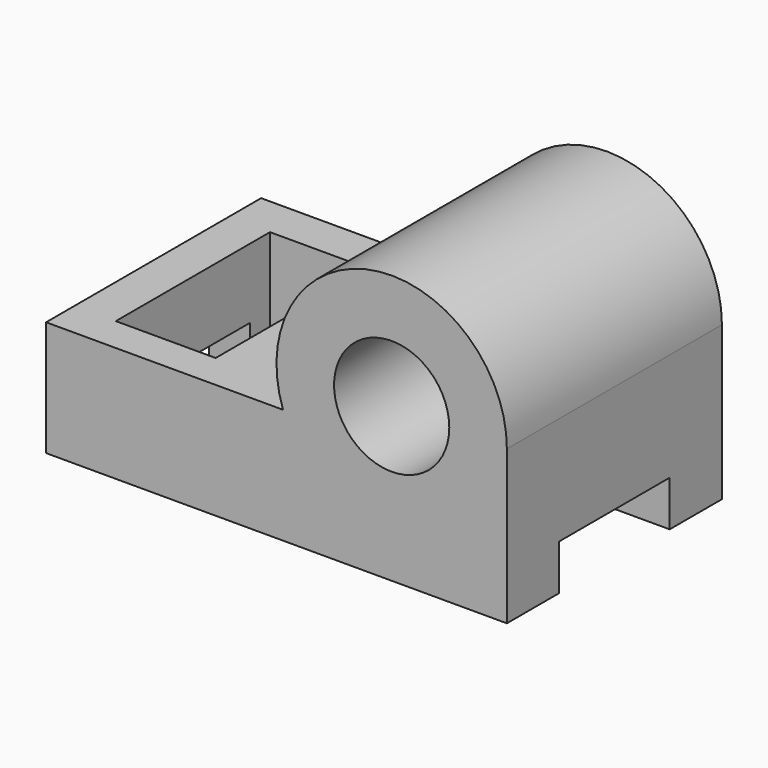
from build123d import *

# Parameters (mm, degrees)
F0_W      = 1200
F0_H      = 700
F1_DEPTH  = 700
F3_DEPTH  = 700.001
F4_R      = 150
F5_DEPTH  = 700.001
F6_W      = 260
F6_H      = 398.8438928255
F7_DEPTH  = 300.001
F8_W      = 260
F8_H      = 102.9841262038
F9_DEPTH  = 300.001
F10_W     = 359.9333584309
F10_H     = 237.0417833328
F11_DEPTH = 1200.001


with BuildPart() as f1:
    # F0 (on Front) → F1 (new body)
    with BuildSketch(Plane.XZ):
        Rectangle(F0_W, F0_H)
    extrude(amount=F1_DEPTH)

    # F2 (on face) → F3 (cut, through all)
    with BuildSketch(Plane.XZ.offset(700)):
        with BuildLine():
            Line((-600, -50), (17.1572875254, -50))
            ThreePointArc((17.1572875254, -50), (55.0510257217, 223.2050807569), (300, 350))
            Line((300, 350), (-600, 350))
            Line((-600, 350), (-600, -50))
        make_face()
        with BuildLine():
            ThreePointArc((300, 350), (512.132034356, 262.132034356), (600, 50))
            Line((600, 50), (600, 350))
            Line((600, 350), (300, 350))
        make_face()
    extrude(amount=-F3_DEPTH, mode=Mode.SUBTRACT)

    # F4 (on face) → F5 (cut, through all)
    with BuildSketch(Plane.XZ.offset(700)):
        with Locations((300, 50)):
            Circle(F4_R)
    extrude(amount=-F5_DEPTH, mode=Mode.SUBTRACT)

    # F6 (on face) → F7 (cut, through all)
    with BuildSketch(Plane.XY.offset(-50)):
        with Locations((-362.4188005924, -305.1174879074)):
            Rectangle(F6_W, F6_H)
    extrude(amount=-F7_DEPTH, mode=Mode.SUBTRACT)

    # F8 (on face) → F9 (cut, through all)
    with BuildSketch(Plane.XY.offset(-50)):
        with Locations((-362.4188005924, -556.0314974221)):
            Rectangle(F8_W, F8_H)
    extrude(amount=-F9_DEPTH, mode=Mode.SUBTRACT)

    # F10 (on face) → F11 (cut, through all)
    with BuildSketch(Plane(origin=(-600, 0, 0), x_dir=(0, -1, 0), z_dir=(-1, 0, 0))):
        with Locations((350, -350)):
            Rectangle(F10_W, F10_H)
    extrude(amount=-F11_DEPTH, mode=Mode.SUBTRACT)


solid = f1.part
